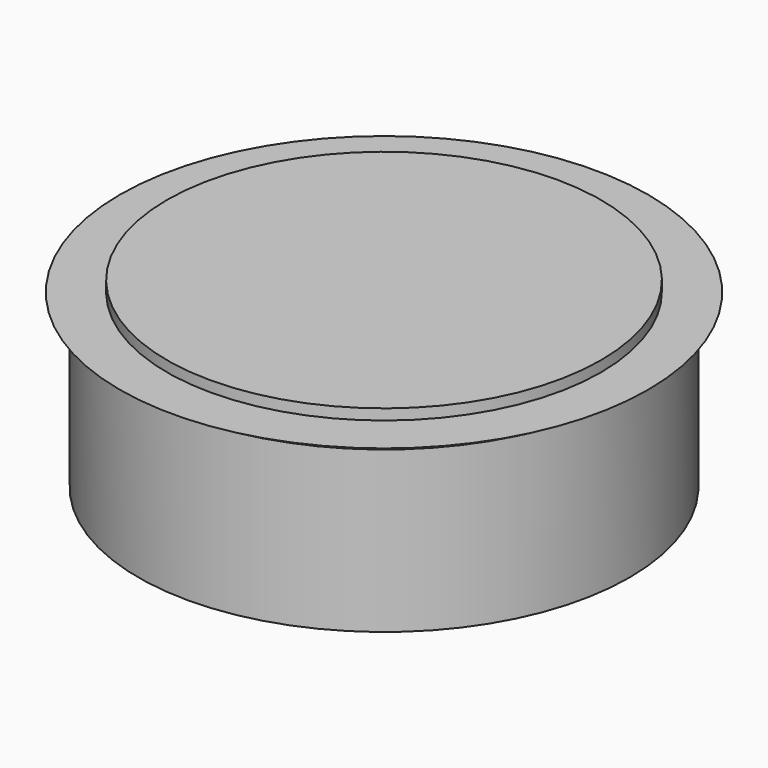
from build123d import *

# Parameters (mm, degrees)
SKETCH001_R = 15.2
PAD_DEPTH   = 0.75


with BuildPart() as part:
    # Sketch → Revolution (revolve)
    with BuildSketch(Plane.XZ):
        Polygon((0, 0), (-18.5, 0), (-17.2, -0.75), (-17.2, -12), (0, -12), align=None)
    revolve(axis=Axis((0, 0, 0), (0, 0, 1)))

    # Sketch001 (on Face1 of Revolution) → Pad (new body)
    with BuildSketch(Plane(origin=(0, 0, 0), x_dir=(-1, 0, 0), z_dir=(0, 0, 1))):
        Circle(SKETCH001_R)
    extrude(amount=PAD_DEPTH)


solid = part.part
